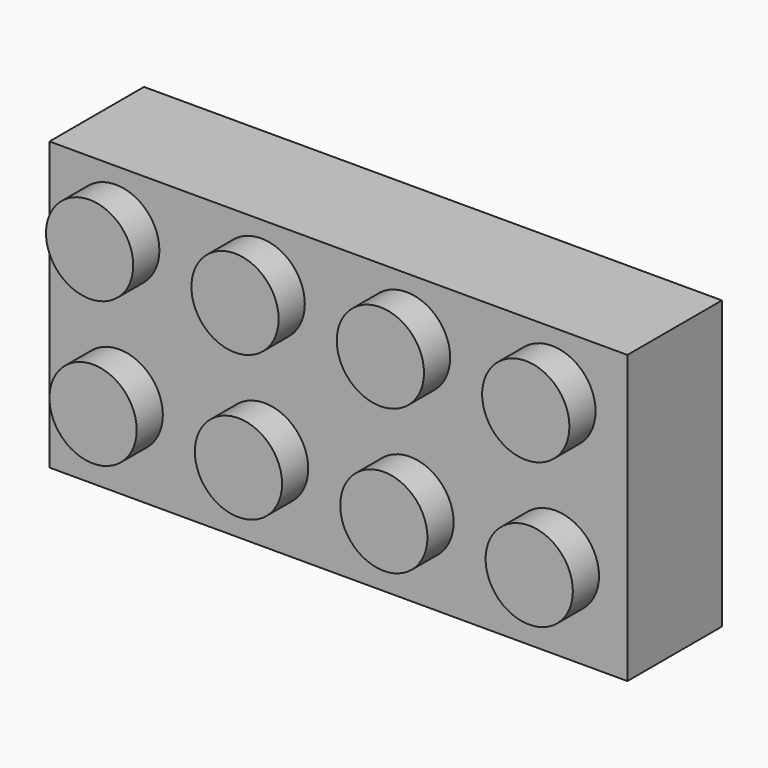
from build123d import *

# Parameters (mm, degrees)
F0_W      = 31.8
F0_H      = 15.8
F1_DEPTH  = 6.5
F3_R      = 2.4
F4_DEPTH  = 1.8
F2_R      = 2.4
F5_DEPTH  = 1.8
F6_W      = 30.6
F6_H      = 14.6
F6_R      = 3.25
F6_R_2    = 2.4
F7_DEPTH  = 3
F8_R      = 1.3
F9_DEPTH  = 1
F10_R     = 1.4
F11_DEPTH = 1


with BuildPart() as f1:
    # F0 (on Front) → F1 (new body)
    with BuildSketch(Plane.XZ):
        Rectangle(F0_W, F0_H)
    extrude(amount=F1_DEPTH)

    # F3 (on face) → F4 (join)
    with BuildSketch(Plane.XZ.offset(6.5)):
        with Locations((-12.062647, -3.321402)):
            Circle(F3_R)
        with Locations((-4.062647, -3.321402)):
            Circle(F3_R)
        with Locations((3.937353, -3.321402)):
            Circle(F3_R)
        with Locations((11.937353, -3.321402)):
            Circle(F3_R)
    extrude(amount=F4_DEPTH)

    # F2 (on face) → F5 (join)
    with BuildSketch(Plane.XZ.offset(6.5)):
        with Locations((-12.252313, 4.5951)):
            Circle(F2_R)
        with Locations((-4.252313, 4.5951)):
            Circle(F2_R)
        with Locations((3.747687, 4.5951)):
            Circle(F2_R)
        with Locations((11.747687, 4.5951)):
            Circle(F2_R)
    extrude(amount=F5_DEPTH)

    # F6 (on face) → F7 (cut)
    with BuildSketch(Plane(origin=(0, 0, 0), x_dir=(-1, 0, 0), z_dir=(0, 1, 0))):
        Rectangle(F6_W, F6_H)
        with Locations((-8.957913, 0)):
            Circle(F6_R, mode=Mode.SUBTRACT)
        with Locations((0.042087, 0)):
            Circle(F6_R, mode=Mode.SUBTRACT)
        with Locations((9.042087, 0)):
            Circle(F6_R, mode=Mode.SUBTRACT)
        with Locations((-8.957913, 0)):
            Circle(F6_R_2)
        with Locations((0.042087, 0)):
            Circle(F6_R_2)
        with Locations((9.042087, 0)):
            Circle(F6_R_2)
    extrude(amount=-F7_DEPTH, mode=Mode.SUBTRACT)

    # F8 (on face) → F9 (cut)
    with BuildSketch(Plane(origin=(0, -3, 0), x_dir=(-1, 0, 0), z_dir=(0, 1, 0))):
        with Locations((-11.72863, 5.264877)):
            Circle(F8_R)
        with Locations((-3.72863, 5.264877)):
            Circle(F8_R)
        with Locations((4.27137, 5.264877)):
            Circle(F8_R)
        with Locations((12.27137, 5.264877)):
            Circle(F8_R)
    extrude(amount=-F9_DEPTH, mode=Mode.SUBTRACT)

    # F10 (on face) → F11 (cut)
    with BuildSketch(Plane(origin=(0, -3, 0), x_dir=(-1, 0, 0), z_dir=(0, 1, 0))):
        with Locations((-11.645505, -4.969024)):
            Circle(F10_R)
        with Locations((-3.645505, -4.969024)):
            Circle(F10_R)
        with Locations((4.354495, -4.969024)):
            Circle(F10_R)
        with Locations((12.354495, -4.969024)):
            Circle(F10_R)
    extrude(amount=-F11_DEPTH, mode=Mode.SUBTRACT)


solid = f1.part
